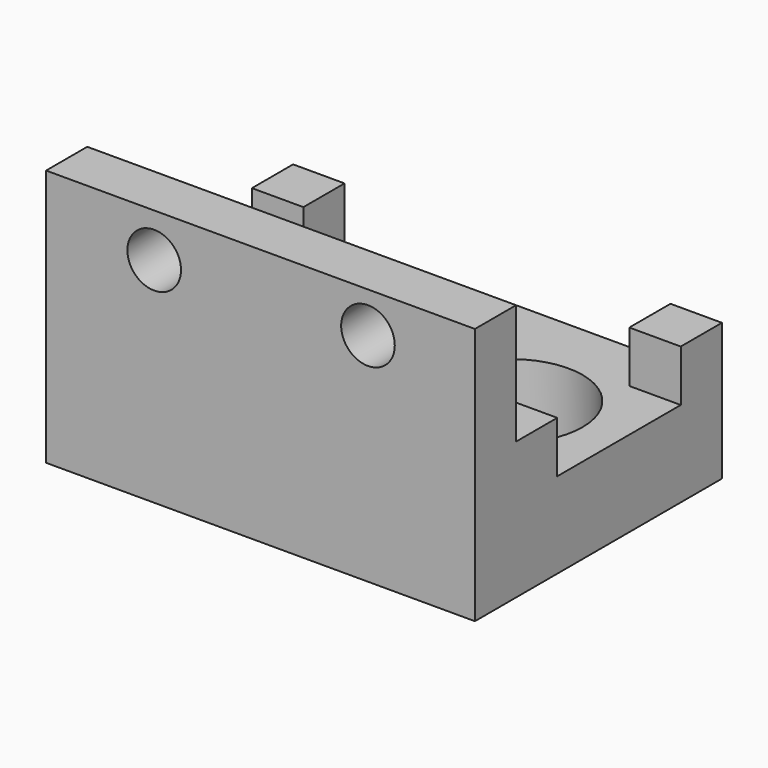
from build123d import *

# Parameters (mm, degrees)
F6_W      = 50
F6_H      = 6
F7_DEPTH  = 30
F0_W      = 50
F0_H      = 30
F8_DEPTH  = 10
F1_W      = 6
F1_H      = 6
F2_W      = 6
F2_H      = 6
F11_DEPTH = 16
F13_R     = 3.125
F14_DEPTH = 10
F9_R      = 8.25
F15_DEPTH = 7
F10_R     = 8.25
F16_DEPTH = 10


with BuildPart() as f7:
    # F6 (on Top) → F7 (new body)
    with BuildSketch(Plane.XY):
        with Locations((0, -18)):
            Rectangle(F6_W, F6_H)
    extrude(amount=F7_DEPTH)

    # F0 (on Top) → F8 (join)
    with BuildSketch(Plane.XY):
        Rectangle(F0_W, F0_H)
    extrude(amount=F8_DEPTH)

    # F1 (on Top) + F2 (on Top) → F11 (join)
    with BuildSketch(Plane.XY):
        with Locations((-22, 12)):
            Rectangle(F1_W, F1_H)
    with BuildSketch(Plane.XY):
        with Locations((22, 12)):
            Rectangle(F2_W, F2_H)
        with Locations((22, -12)):
            Rectangle(F2_W, F2_H)
        with Locations((-22, -12)):
            Rectangle(F2_W, F2_H)
    extrude(amount=F11_DEPTH)

    # F13 (on face) → F14 (cut)
    with BuildSketch(Plane.XZ.offset(21)):
        with Locations((-12.3940734193, 24.9021667987)):
            Circle(F13_R)
        with Locations((12.5320926309, 25.2671018243)):
            Circle(F13_R)
    extrude(amount=-F14_DEPTH, mode=Mode.SUBTRACT)

    # F9 (on face) → F15 (cut)
    with BuildSketch(Plane.XY.offset(10)):
        with Locations((-12.5, 0)):
            Circle(F9_R)
    extrude(amount=-F15_DEPTH, mode=Mode.SUBTRACT)

    # F10 (on face) → F16 (cut)
    with BuildSketch(Plane.XY.offset(10)):
        with Locations((12.5, 0)):
            Circle(F10_R)
    extrude(amount=-F16_DEPTH, mode=Mode.SUBTRACT)


solid = f7.part
